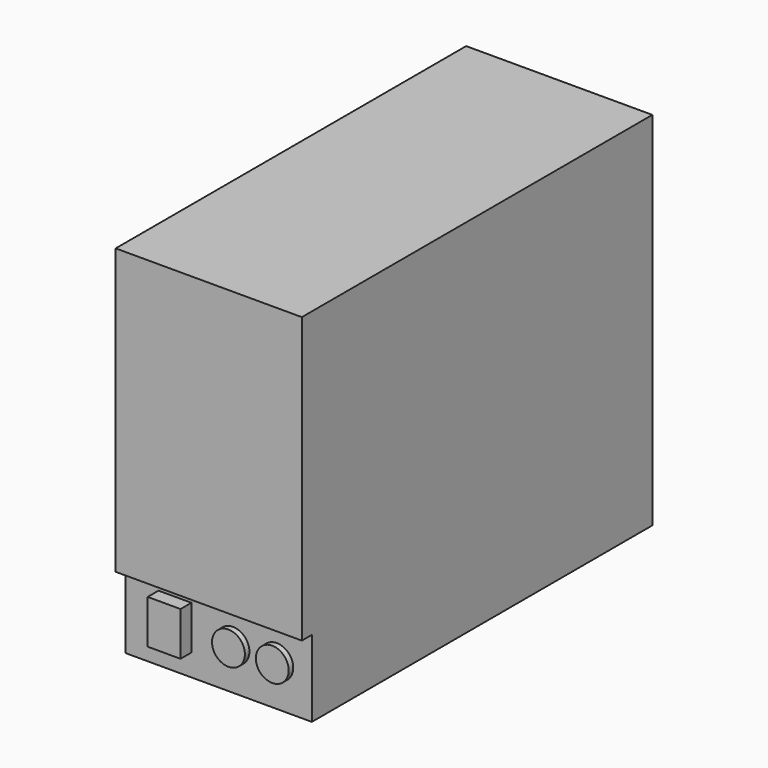
from build123d import *

# Parameters (mm, degrees)
F0_W     = 85
F0_H     = 165
F1_DEPTH = 100
F2_W     = 30
F2_H     = 32
F3_DEPTH = 10
F4_W     = 85
F4_H     = 35
F5_DEPTH = 5.7
F6_R     = 7.5
F7_DEPTH = 2.6
F8_W     = 15
F8_H     = 20
F9_DEPTH = 6.2


with BuildPart() as f1:
    # F0 (on Front) → F1 (new body, symmetric)
    with BuildSketch(Plane.XZ):
        Rectangle(F0_W, F0_H)
    extrude(amount=F1_DEPTH, both=True)

    # F2 (on face) → F3 (join)
    with BuildSketch(Plane(origin=(0, 100, 0), x_dir=(-1, 0, 0), z_dir=(0, 1, 0))):
        with Locations((15.5, -43.5)):
            Rectangle(F2_W, F2_H)
    extrude(amount=F3_DEPTH)

    # F4 (on face) → F5 (cut)
    with BuildSketch(Plane.XZ.offset(100)):
        with Locations((0, -65)):
            Rectangle(F4_W, F4_H)
    extrude(amount=-F5_DEPTH, mode=Mode.SUBTRACT)

    # F6 (on face) → F7 (join)
    with BuildSketch(Plane.XZ.offset(94.3)):
        with Locations((6.5, -63.5)):
            Circle(F6_R)
        with Locations((26.5, -63.5)):
            Circle(F6_R)
    extrude(amount=F7_DEPTH)

    # F8 (on face) → F9 (join)
    with BuildSketch(Plane.XZ.offset(94.3)):
        with Locations((-20, -62.5)):
            Rectangle(F8_W, F8_H)
    extrude(amount=F9_DEPTH)


solid = f1.part
